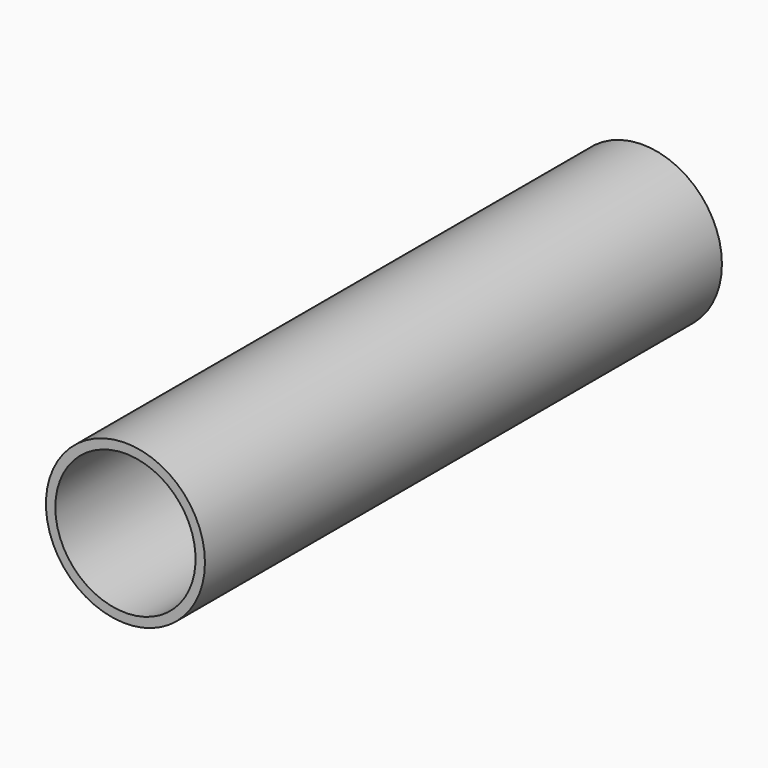
from build123d import *

# Parameters (mm, degrees)
F0_R     = 12.5
F1_DEPTH = 101.6
F2_DEPTH = 25.4
F3_R     = 11.025
F4_DEPTH = 291.084


with BuildPart() as f1:
    # F0 (on Front) → F1 (new body)
    with BuildSketch(Plane.XZ):
        Circle(F0_R)
    extrude(amount=F1_DEPTH)

    # F0 (on Front) → F2 (join)
    with BuildSketch(Plane.XZ):
        Circle(F0_R)
    extrude(amount=F2_DEPTH)

    # F3 (on face) → F4 (cut)
    with BuildSketch(Plane(origin=(0, 0, 0), x_dir=(-1, 0, 0), z_dir=(0, 1, 0))):
        Circle(F3_R)
    extrude(amount=-F4_DEPTH, mode=Mode.SUBTRACT)


solid = f1.part
